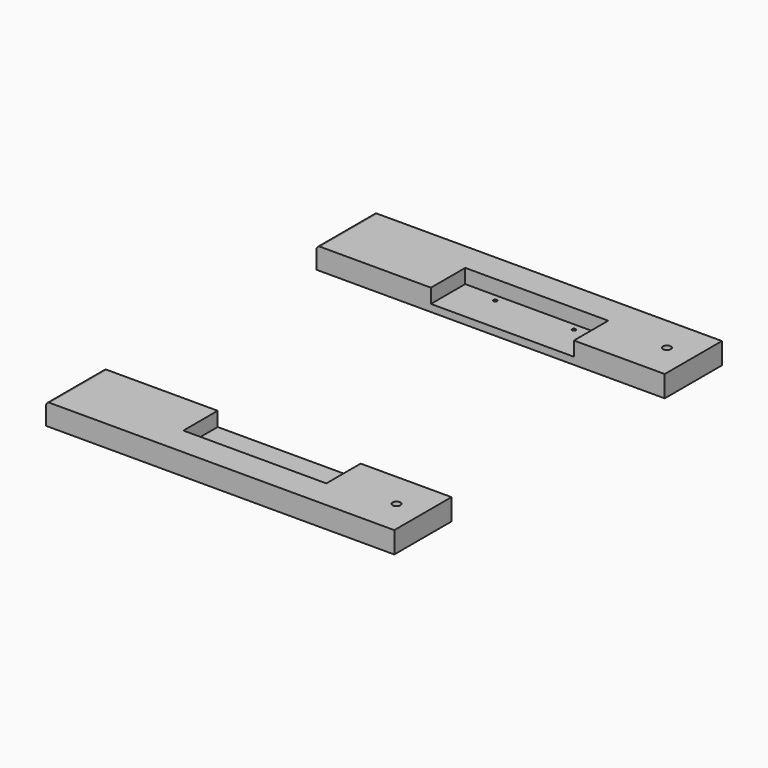
from build123d import *

# Parameters (mm, degrees)
F1_DEPTH       = 3
F0_W           = 20
F0_H           = 6
F2_DEPTH       = 1
F3_D           = 0.5
F3_CSINK_D     = 1
F3_CSINK_ANGLE = 90
F4_D           = 1.1
F4_CBORE_D     = 3
F4_CBORE_DEPTH = 1
F5_R           = 0.5


with BuildPart() as f1:
    # F0 (on Top) → F1 (new body)
    with BuildSketch(Plane.XY):
        Polygon((-44.3622941555, 28.6392407678), (-44.3622941555, 18.6392407678), (-28.3622941555, 18.6392407678), (-28.3622941555, 24.6392407678), (-8.3622941555, 24.6392407678), (-8.3622941555, 18.6392407678), (4.3377058445, 18.6392407678), (4.3377058445, 28.6392407678), align=None)
    extrude(amount=F1_DEPTH)

    # F0 (on Top) → F2 (join)
    with BuildSketch(Plane.XY):
        with Locations((-18.3622941555, 21.6392407678)):
            Rectangle(F0_W, F0_H)
    extrude(amount=F2_DEPTH)

    # F3 (through all)
    with Locations(Plane(origin=(0, 0, 0), x_dir=(1, 0, 0), z_dir=(0, 0, -1))):
        with Locations((-23.3622941555, -23.6392407678), (-12.3622941555, -23.6392407678)):
            CounterSinkHole(F3_D / 2, F3_CSINK_D / 2, counter_sink_angle=F3_CSINK_ANGLE)

    # F4 (through all)
    with Locations(Plane(origin=(0, 0, 0), x_dir=(1, 0, 0), z_dir=(0, 0, -1))):
        with Locations((0.6377058445, -23.6392407678)):
            CounterBoreHole(F4_D / 2, F4_CBORE_D / 2, F4_CBORE_DEPTH)

    # F5
    f5_edges = [f1.edges().sort_by_distance(p)[0] for p in [
        (-44.362294, 23.639241, 3),
    ]]
    fillet(f5_edges, radius=F5_R)


with BuildPart() as f6_1:
    # F6: instance of F1
    add(f1.part.mirror(Plane.XZ))


solid = Compound([f1.part, f6_1.part])
